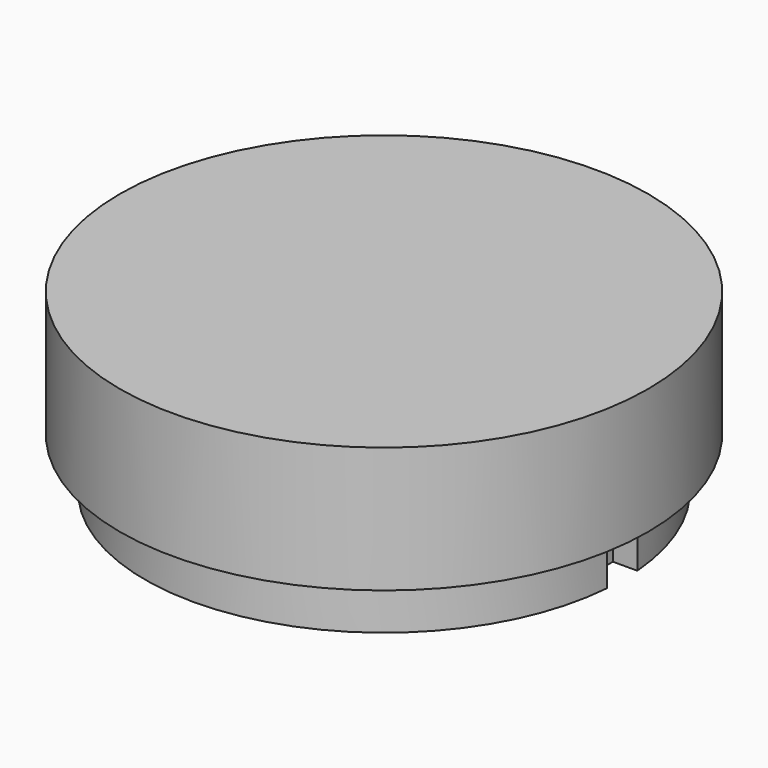
from build123d import *

# Parameters (mm, degrees)
SKETCH_R     = 9.5
PAD_DEPTH    = 2
SKETCH001_W  = 2
SKETCH001_H  = 1.5
POCKET_DEPTH = 5
SKETCH002_R  = 10.5
PAD001_DEPTH = 5


with BuildPart() as part:
    # Sketch → Pad (new body)
    with BuildSketch(Plane.XY):
        Circle(SKETCH_R)
    extrude(amount=PAD_DEPTH)

    # Sketch001 (on Face3 of Pad) → Pocket (cut)
    with BuildSketch(Plane.XY.offset(2)):
        with Locations((9.5, 0)):
            Rectangle(SKETCH001_W, SKETCH001_H)
        with Locations((-9.5, 0)):
            Rectangle(SKETCH001_W, SKETCH001_H)
    extrude(amount=-POCKET_DEPTH, mode=Mode.SUBTRACT)

    # Sketch002 (on Face4 of Pocket) → Pad001 (join)
    with BuildSketch(Plane.XY.offset(2)):
        Circle(SKETCH002_R)
    extrude(amount=PAD001_DEPTH)


solid = part.part
